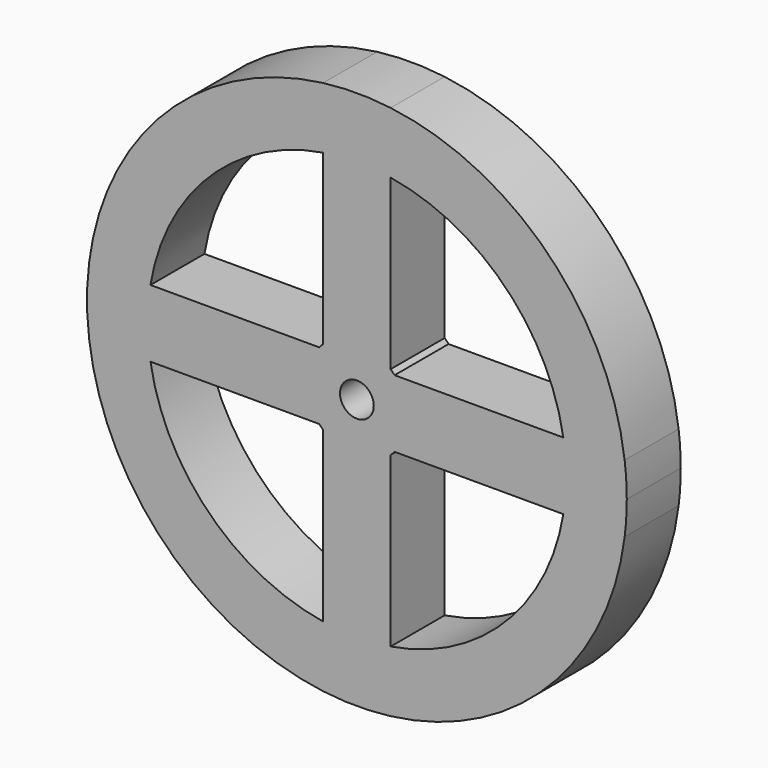
from build123d import *

# Parameters (mm, degrees)
F0_R     = 2.5
F1_DEPTH = 10


with BuildPart() as f1:
    # F0 (on Front) → F1 (new body)
    with BuildSketch(Plane.XZ):
        with BuildLine():
            ThreePointArc((39.68627, -5), (39.92149, -2.504917), (40, 0))
            ThreePointArc((40, 0), (39.92149, 2.504917), (39.68627, 5))
            ThreePointArc((39.68627, 5), (28.284271, 28.284271), (5, 39.68627))
            ThreePointArc((5, 39.68627), (0, 40), (-5, 39.68627))
            ThreePointArc((-5, 39.68627), (-28.284271, 28.284271), (-39.68627, 5))
            ThreePointArc((-39.68627, 5), (-40, 0), (-39.68627, -5))
            ThreePointArc((-39.68627, -5), (-28.284271, -28.284271), (-5, -39.68627))
            ThreePointArc((-5, -39.68627), (0, -40), (5, -39.68627))
            ThreePointArc((5, -39.68627), (28.284271, -28.284271), (39.68627, -5))
        make_face()
        with BuildLine():
            ThreePointArc((-5, -30.594117), (-21.92031, -21.92031), (-30.594117, -5))
            Line((-30.594117, -5), (-5.59017, -5))
            ThreePointArc((-5.59017, -5), (-5.303301, -5.303301), (-5, -5.59017))
            Line((-5, -5.59017), (-5, -30.594117))
        make_face(mode=Mode.SUBTRACT)
        with BuildLine():
            Line((5, -30.594117), (5, -5.59017))
            ThreePointArc((5, -5.59017), (5.303301, -5.303301), (5.59017, -5))
            Line((5.59017, -5), (30.594117, -5))
            ThreePointArc((30.594117, -5), (21.92031, -21.92031), (5, -30.594117))
        make_face(mode=Mode.SUBTRACT)
        with BuildLine():
            Line((-5, 30.594117), (-5, 5.59017))
            ThreePointArc((-5, 5.59017), (-5.303301, 5.303301), (-5.59017, 5))
            Line((-5.59017, 5), (-30.594117, 5))
            ThreePointArc((-30.594117, 5), (-21.92031, 21.92031), (-5, 30.594117))
        make_face(mode=Mode.SUBTRACT)
        Circle(F0_R, mode=Mode.SUBTRACT)
        with BuildLine():
            Line((30.594117, 5), (5.59017, 5))
            ThreePointArc((5.59017, 5), (5.303301, 5.303301), (5, 5.59017))
            Line((5, 5.59017), (5, 30.594117))
            ThreePointArc((5, 30.594117), (21.92031, 21.92031), (30.594117, 5))
        make_face(mode=Mode.SUBTRACT)
    extrude(amount=F1_DEPTH)


solid = f1.part
